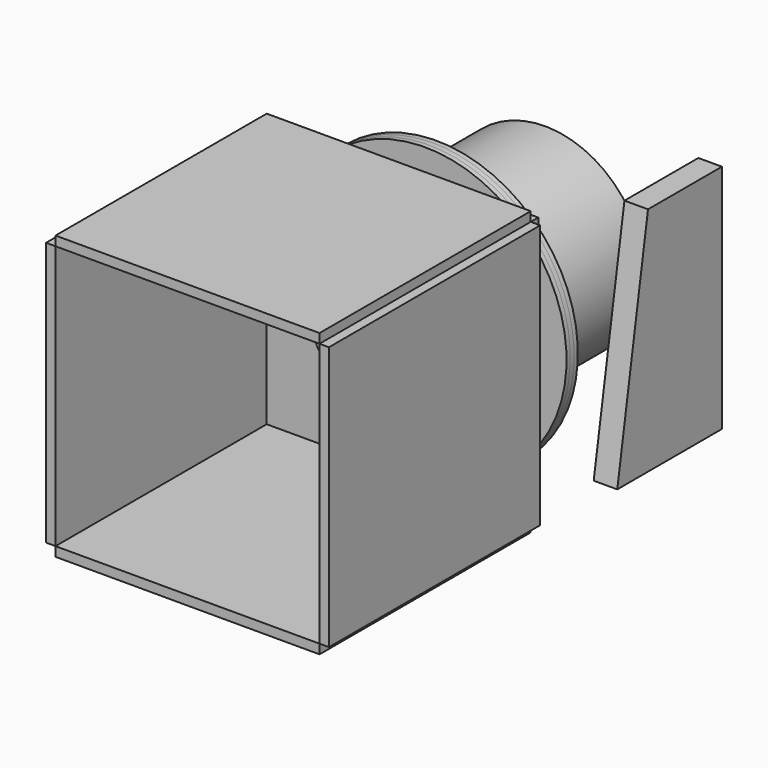
from build123d import *

# Parameters (mm, degrees)
F0_W      = 280
F0_H      = 280
F0_R      = 100
F1_DEPTH  = 10
F2_W      = 280
F2_H      = 10
F3_DEPTH  = 280
F4_W      = 10
F4_H      = 280
F5_DEPTH  = 280
F6_W      = 10
F6_H      = 280
F7_DEPTH  = 280
F8_W      = 280
F8_H      = 10
F9_DEPTH  = 280
F10_R     = 105
F10_R_2   = 100
F11_DEPTH = 25
F12_R     = 150
F12_R_2   = 100
F13_DEPTH = 5
F14_R     = 150
F14_R_2   = 125
F15_DEPTH = 5
F16_R     = 122
F16_R_2   = 100
F17_DEPTH = 4
F18_R     = 105
F18_R_2   = 100
F19_DEPTH = 150
F20_R     = 150
F20_R_2   = 107.5
F21_DEPTH = 5
F23_DEPTH = 25


with BuildPart() as f1:
    # F0 (on Front) → F1 (new body)
    with BuildSketch(Plane.XZ):
        Rectangle(F0_W, F0_H)
        Circle(F0_R, mode=Mode.SUBTRACT)
    extrude(amount=F1_DEPTH)


with BuildPart() as f3:
    # F2 (on face) → F3 (new body)
    with BuildSketch(Plane.XZ.offset(10)):
        with Locations((0, 145)):
            Rectangle(F2_W, F2_H)
    extrude(amount=F3_DEPTH)


with BuildPart() as f5:
    # F4 (on face) → F5 (new body)
    with BuildSketch(Plane.XZ.offset(10)):
        with Locations((-145, 0)):
            Rectangle(F4_W, F4_H)
    extrude(amount=F5_DEPTH)


with BuildPart() as f7:
    # F6 (on face) → F7 (new body)
    with BuildSketch(Plane.XZ.offset(10)):
        with Locations((145, 0)):
            Rectangle(F6_W, F6_H)
    extrude(amount=F7_DEPTH)


with BuildPart() as f9:
    # F8 (on face) → F9 (new body)
    with BuildSketch(Plane.XZ.offset(10)):
        with Locations((0, -145)):
            Rectangle(F8_W, F8_H)
    extrude(amount=F9_DEPTH)


with BuildPart() as f11:
    # F10 (on face) → F11 (new body)
    with BuildSketch(Plane(origin=(0, 0, 0), x_dir=(-1, 0, 0), z_dir=(0, 1, 0))):
        Circle(F10_R)
        Circle(F10_R_2, mode=Mode.SUBTRACT)
    extrude(amount=F11_DEPTH)

    # F12 (on face) → F13 (join)
    with BuildSketch(Plane(origin=(0, 25, 0), x_dir=(-1, 0, 0), z_dir=(0, 1, 0))):
        Circle(F12_R)
        Circle(F12_R_2, mode=Mode.SUBTRACT)
    extrude(amount=F13_DEPTH)

    # F16 (on face) → F17 (join)
    with BuildSketch(Plane(origin=(0, 30, 0), x_dir=(-1, 0, 0), z_dir=(0, 1, 0))):
        Circle(F16_R)
        Circle(F16_R_2, mode=Mode.SUBTRACT)
    extrude(amount=F17_DEPTH)

    # F18 (on face) → F19 (join)
    with BuildSketch(Plane(origin=(0, 34, 0), x_dir=(-1, 0, 0), z_dir=(0, 1, 0))):
        Circle(F18_R)
        Circle(F18_R_2, mode=Mode.SUBTRACT)
    extrude(amount=F19_DEPTH)


with BuildPart() as f15:
    # F14 (on face) → F15 (new body)
    with BuildSketch(Plane(origin=(0, 30, 0), x_dir=(-1, 0, 0), z_dir=(0, 1, 0))):
        Circle(F14_R)
        Circle(F14_R_2, mode=Mode.SUBTRACT)
    extrude(amount=F15_DEPTH)


with BuildPart() as f21:
    # F20 (on face) → F21 (new body)
    with BuildSketch(Plane(origin=(0, 35, 0), x_dir=(-1, 0, 0), z_dir=(0, 1, 0))):
        Circle(F20_R)
        Circle(F20_R_2, mode=Mode.SUBTRACT)
    extrude(amount=F21_DEPTH)


with BuildPart() as f23:
    # F22 (on face) → F23 (new body)
    with BuildSketch(Plane.YZ.offset(150)):
        Polygon((199.7325718403, 117.6671534777), (101.7529219389, 117.6671534777), (61.0043779016, -127.2819787264), (199.7325718403, -127.2819787264), align=None)
    extrude(amount=F23_DEPTH)


solid = Compound([f1.part, f3.part, f5.part, f7.part, f9.part, f11.part, f15.part, f21.part, f23.part])
